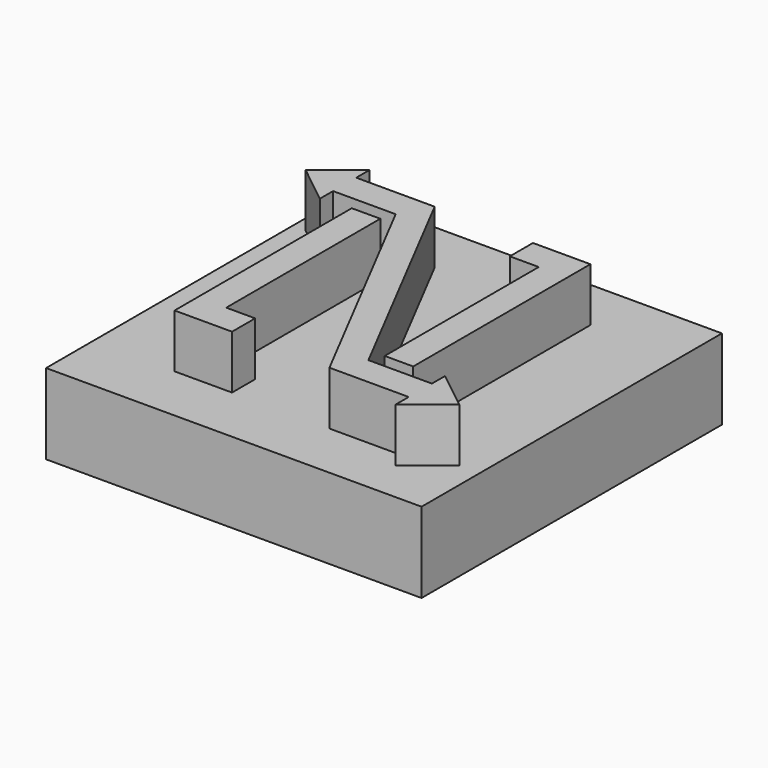
from build123d import *

# Parameters (mm, degrees)
F0_W     = 70.067666
F0_H     = 70.067667
F2_DEPTH = 15
F1_W     = 5.398806
F1_H     = 5.399308
F1_H_2   = 5.399307
F3_DEPTH = 25


with BuildPart() as f2:
    # F0 (on Top) → F2 (new body)
    with BuildSketch(Plane.XY):
        with Locations((0.265833, -0.609237)):
            Rectangle(F0_W, F0_H)
    extrude(amount=F2_DEPTH)

    # F1 (on Top) → F3 (join)
    with BuildSketch(Plane.XY):
        Polygon((-14.17026, 16.568485), (-19.4919, 16.568485), (-19.4919, -24.765937), (-14.17026, -24.765937), (-14.17026, -19.366629), align=None)
        with Locations((-11.470857, -22.066283)):
            Rectangle(F1_W, F1_H)
        Polygon((-10.363362, 24.496303), (-19.585205, 24.496303), (-24.996936, 24.496303), (-24.996936, 27.575392), (-32.27913, 21.791303), (-24.996936, 16.007215), (-24.996936, 19.086303), (-19.585205, 19.086303), (-13.312519, 19.086303), (9.406068, -24.765937), (18.790985, -24.765937), (24.202717, -24.765937), (24.202717, -27.845025), (31.48491, -22.060937), (24.202717, -16.276848), (24.202717, -19.355937), (18.790985, -19.355937), (12.355225, -19.355937), align=None)
        Polygon((13.37604, -16.838118), (18.69768, -16.838118), (18.69768, 24.496303), (13.37604, 24.496303), (13.37604, 19.096996), align=None)
        with Locations((10.676637, 21.79665)):
            Rectangle(F1_W, F1_H_2)
    extrude(amount=F3_DEPTH)


solid = f2.part
